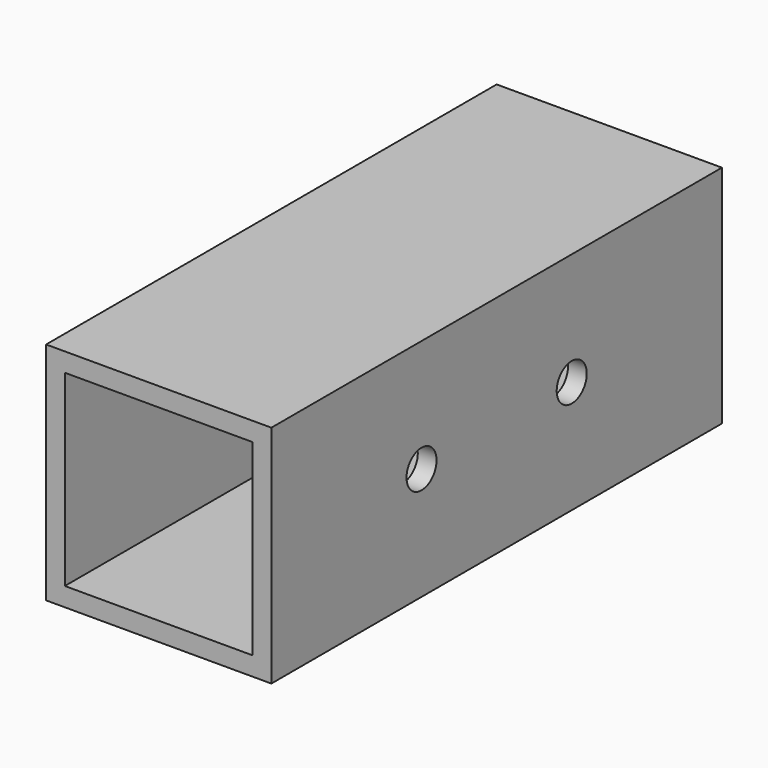
from build123d import *

# Parameters (mm, degrees)
F0_W     = 24
F0_H     = 24
F0_W_2   = 20
F0_H_2   = 20
F1_DEPTH = 60
F2_R     = 2
F3_DEPTH = 25


with BuildPart() as f1:
    # F0 (on Front) → F1 (new body)
    with BuildSketch(Plane.XZ):
        with Locations((-4.673772, -10.747903)):
            Rectangle(F0_W, F0_H)
        with Locations((-4.673772, -10.747903)):
            Rectangle(F0_W_2, F0_H_2, mode=Mode.SUBTRACT)
    extrude(amount=F1_DEPTH)

    # F2 (on face) → F3 (cut)
    with BuildSketch(Plane.YZ.offset(7.326228)):
        with Locations((-40, -10.747903)):
            Circle(F2_R)
        with Locations((-20, -10.747903)):
            Circle(F2_R)
    extrude(amount=-F3_DEPTH, mode=Mode.SUBTRACT)


solid = f1.part
